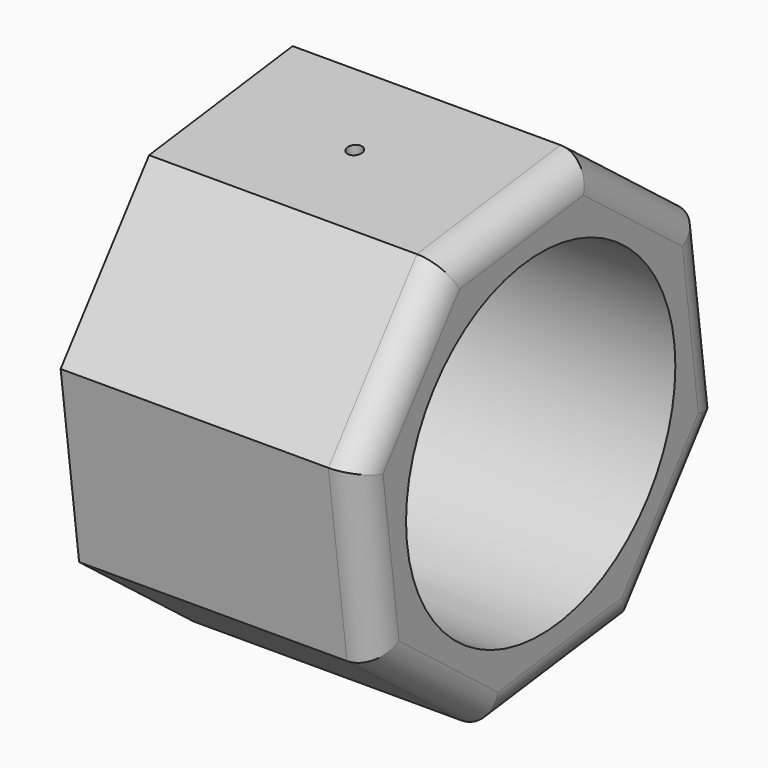
from build123d import *

# Parameters (mm, degrees)
F0_R     = 56.5732299852
F1_DEPTH = 100
F2_R     = 10
F4_D     = 5


with BuildPart() as f1:
    # F0 (on Right) → F1 (new body)
    with BuildSketch(Plane.YZ):
        Polygon((39.5261961416, -68.9136280333), (76.6785350248, -20.7800523723), (68.9136280333, 39.5261961416), (20.7800523723, 76.6785350248), (-39.5261961416, 68.9136280333), (-76.6785350248, 20.7800523723), (-68.9136280333, -39.5261961416), (-20.7800523723, -76.6785350248), align=None)
        Circle(F0_R, mode=Mode.SUBTRACT)
    extrude(amount=F1_DEPTH)

    # F2
    f2_edges = [f1.edges().sort_by_distance(p)[0] for p in [
        (100, -9.373072, 72.796082),
        (100, -58.102366, 44.84684),
        (100, -72.796082, -9.373072),
        (100, -44.84684, -58.102366),
        (100, 9.373072, -72.796082),
        (100, 58.102366, -44.84684),
        (100, 72.796082, 9.373072),
        (100, 44.84684, 58.102366),
    ]]
    fillet(f2_edges, radius=F2_R)

    # F4 (through all)
    with Locations(Plane(origin=(0, 9.3730718847, -72.796081529), x_dir=(1, 0, 0), z_dir=(0, 0.1277036949, -0.9918123645))):
        with Locations((45, 0)):
            Hole(F4_D / 2)


solid = f1.part
